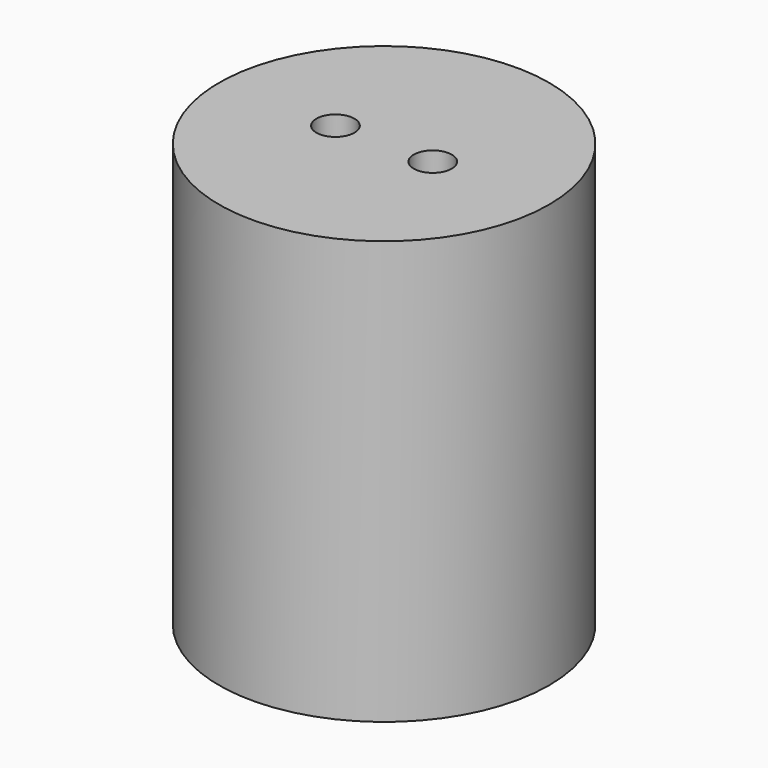
from build123d import *

# Parameters (mm, degrees)
SKETCH_R        = 3.1
PAD_DEPTH       = 6
SKETCH001_R     = 2.7
POCKET_DEPTH    = 5
SKETCH002_R     = 0.35
POCKET001_DEPTH = 1.001
SKETCH003_R     = 3.9
PAD001_DEPTH    = 10
SKETCH004_R     = 3.1
POCKET002_DEPTH = 8
SKETCH005_R     = 0.45
POCKET003_DEPTH = 10.001


with BuildPart() as obj1:
    # Sketch → Pad (new body)
    with BuildSketch(Plane.XY):
        Circle(SKETCH_R)
    extrude(amount=PAD_DEPTH)

    # Sketch001 (on Face3 of Pad) → Pocket (cut)
    with BuildSketch(Plane.XY.offset(6)):
        Circle(SKETCH001_R)
    extrude(amount=-POCKET_DEPTH, mode=Mode.SUBTRACT)

    # Sketch002 (on Face5 of Pocket) → Pocket001 (cut, through all)
    with BuildSketch(Plane.XY.offset(1)):
        with Locations((-1.5, 0)):
            Circle(SKETCH002_R)
        with Locations((1.5, 0)):
            Circle(SKETCH002_R)
    extrude(amount=-POCKET001_DEPTH, mode=Mode.SUBTRACT)


with BuildPart() as led_housing:
    # Sketch003 (on DatumPlane) → Pad001 (new body)
    with BuildSketch(Plane.XY.offset(10)):
        Circle(SKETCH003_R)
    extrude(amount=-PAD001_DEPTH)

    # Sketch004 (on Face3 of Pad001) → Pocket002 (cut)
    with BuildSketch(Plane(origin=(0, 0, 0), x_dir=(1, 0, 0), z_dir=(0, 0, -1))):
        Circle(SKETCH004_R)
    extrude(amount=-POCKET002_DEPTH, mode=Mode.SUBTRACT)

    # Sketch005 (on Face2 of Pocket002) → Pocket003 (cut, through all)
    with BuildSketch(Plane.XY.offset(10)):
        with Locations((-1.15, 0)):
            Circle(SKETCH005_R)
        with Locations((1.15, 0)):
            Circle(SKETCH005_R)
    extrude(amount=-POCKET003_DEPTH, mode=Mode.SUBTRACT)


solid = Compound([obj1.part, led_housing.part])
